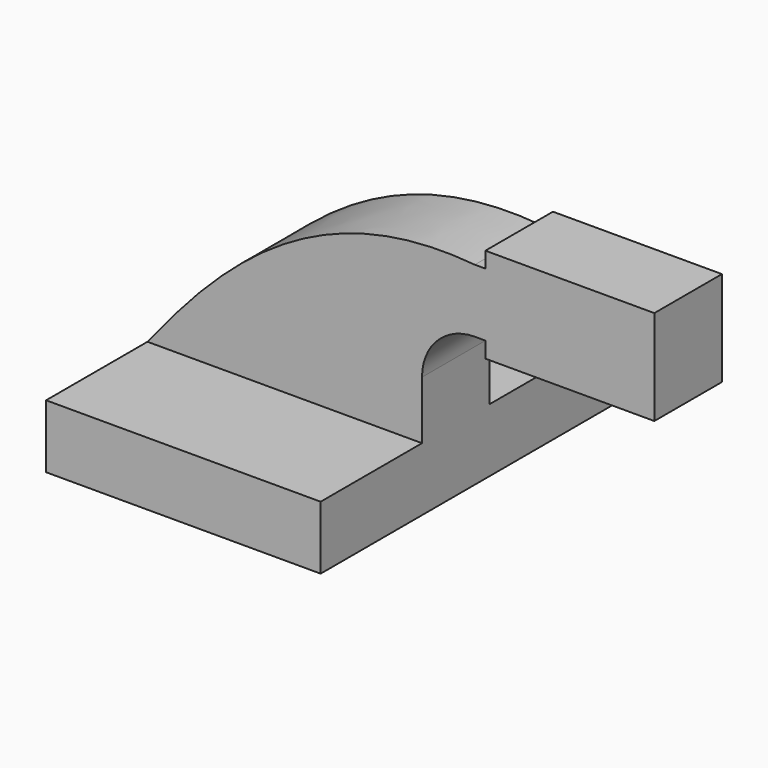
from build123d import *

# Parameters (mm, degrees)
F1_DEPTH = 63.5
F0_W     = 25.4
F0_H     = 19.05
F0_H_2   = 4.7498
F0_H_3   = 4.7752
F2_DEPTH = 25.4


with BuildPart() as f1:
    # F0 (on Front) → F1 (new body, symmetric)
    with BuildSketch(Plane.XZ):
        Polygon((22.225, 9.525), (-41.275, 9.525), (-41.275, -9.525), (41.275, -9.525), (41.275, 9.525), align=None)
    extrude(amount=F1_DEPTH, both=True)

    # F0 (on Front) → F2 (join)
    with BuildSketch(Plane.XZ):
        with BuildLine():
            add(Edge.make_bspline(
                [(-41.275, 9.525), (-17.5234507769, 39.429217577), (10.7755595818, 66.2067756057), (57.15, 61.9252)],
                knots=[0, 0, 0, 0, 111.5045361635, 111.5045361635, 111.5045361635, 111.5045361635], degree=3))
            Line((-41.275, 9.525), (22.225, 9.525))
            Line((22.225, 9.525), (22.225, 27.0002))
            ThreePointArc((22.225, 27.0002), (32.4542956671, 51.6959043329), (57.15, 61.9252))
        make_face()
        Polygon((22.225, 9.525), (-41.275, 9.525), (-41.275, -9.525), (41.275, -9.525), (41.275, 9.525), align=None)
        with BuildLine():
            Line((22.225, 27.0002), (22.225, 9.525))
            Line((22.225, 9.525), (41.275, 9.525))
            Line((41.275, 9.525), (41.275, 27.0002))
            ThreePointArc((41.275, 27.0002), (45.9246798487, 38.2255201513), (57.15, 42.8752))
            Line((57.15, 42.8752), (60.325, 42.8752))
            Line((60.325, 42.8752), (60.325, 61.9252))
            Line((60.325, 61.9252), (57.15, 61.9252))
            ThreePointArc((57.15, 61.9252), (32.4542956671, 51.6959043329), (22.225, 27.0002))
        make_face()
        with Locations((73.025, 52.4002)):
            Rectangle(F0_W, F0_H)
        with Locations((73.025, 64.3001)):
            Rectangle(F0_W, F0_H_2)
        with Locations((73.025, 40.4876)):
            Rectangle(F0_W, F0_H_3)
        Polygon((85.725, 66.675), (85.725, 61.9252), (85.725, 42.8752), (85.725, 38.1), (111.125, 38.1), (111.125, 66.675), align=None)
    extrude(amount=F2_DEPTH)


solid = f1.part
